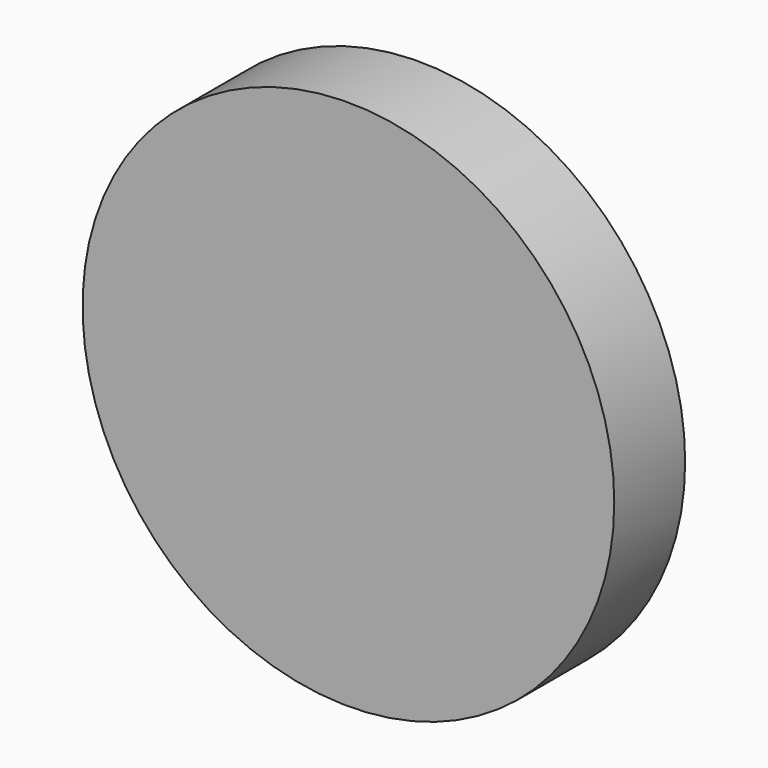
from build123d import *

# Parameters (mm, degrees)
F1_R     = 381
F2_DEPTH = 127


with BuildPart() as f2:
    # F1 (on face) → F2 (new body)
    with BuildSketch(Plane.XZ):
        Circle(F1_R)
    extrude(amount=-F2_DEPTH)


solid = f2.part
